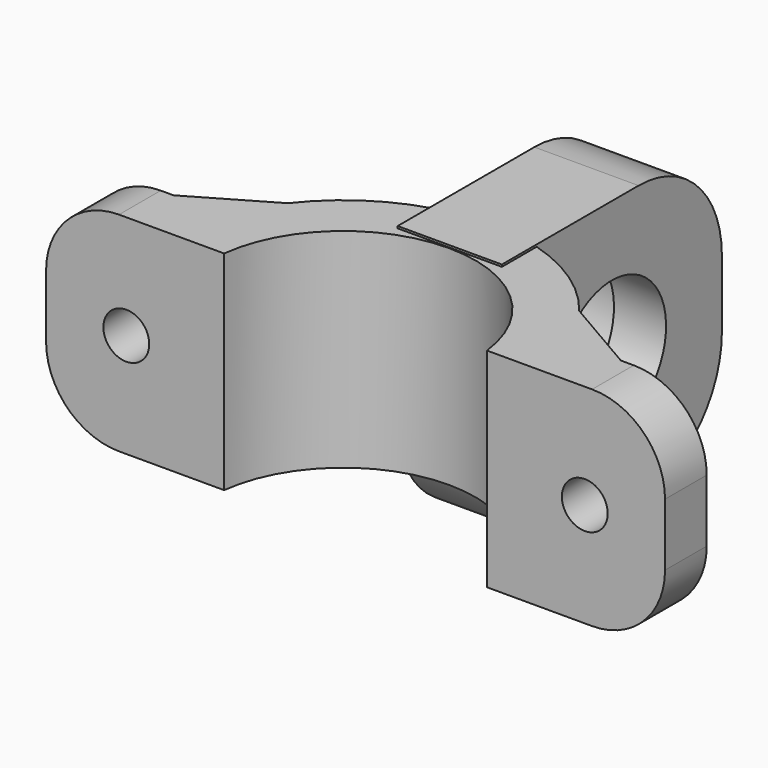
from build123d import *

# Parameters (mm, degrees)
CYLINDER005_R     = 6.5
CYLINDER005_DEPTH = 10
CYLINDER004_R     = 8.2
CYLINDER004_DEPTH = 5
BOX_W             = 10
BOX_H             = 26.4
BOX_DEPTH         = 26.4
FILLET_R          = 10
CYLINDER002_R     = 2.2
CYLINDER002_DEPTH = 20
ARRAY001_X_COUNT  = 2
ARRAY001_X_PITCH  = 44
PAD_DEPTH         = 20
PAD001_DEPTH      = 5


with BuildPart() as bring_holder_hole:
    # Cylinder005 → Cylinder005 (new body)
    with BuildSketch(Plane(origin=(0, 0, 0), x_dir=(0, 0, -1), z_dir=(1, 0, 0))):
        Circle(CYLINDER005_R)
    extrude(amount=CYLINDER005_DEPTH)


with BuildPart() as bring_holder_extract:
    # Cylinder004 → Cylinder004 (new body)
    with BuildSketch(Plane(origin=(0, 0, 0), x_dir=(0, 0, -1), z_dir=(1, 0, 0))):
        Circle(CYLINDER004_R)
    extrude(amount=CYLINDER004_DEPTH)

    # Fusion001: union bring holder hole
    add(bring_holder_hole.part)


with BuildPart() as bring_holder_cut:
    # Box → Box (new body)
    with BuildSketch(Plane(origin=(0, -13.2, -13.2), x_dir=(1, 0, 0), z_dir=(0, 0, 1))):
        with Locations((5, 13.2)):
            Rectangle(BOX_W, BOX_H)
    extrude(amount=BOX_DEPTH)

    # Fillet
    fillet_edges = [bring_holder_cut.edges().sort_by_distance(p)[0] for p in [
        (5, -13.2, -13.2),
        (5, 13.2, -13.2),
        (5, 13.2, 13.2),
    ]]
    fillet(fillet_edges, radius=FILLET_R)

    # Cut023015003: cut bring holder extract
    add(bring_holder_extract.part, mode=Mode.SUBTRACT)


with BuildPart() as bring_holder_cut_1:
    # Cut023015003 placement: moved
    add(bring_holder_cut.part.moved(Location((-5, 26, 7))))


with BuildPart() as bolt_hole_array001:
    # Cylinder002 → Cylinder002 (new body)
    with BuildSketch(Plane.XZ):
        Circle(CYLINDER002_R)
    extrude(amount=CYLINDER002_DEPTH)

    # Array001 X: bolt hole array001 ×2


with BuildPart() as bolt_hole_array001_1:
    add(bolt_hole_array001.part)
    with Locations(*[(i * ARRAY001_X_PITCH, 0, 0) for i in range(1, ARRAY001_X_COUNT)]):
        add(bolt_hole_array001.part)


with BuildPart() as bolt_hole_array001_2:
    # Array001 placement: moved
    add(bolt_hole_array001_1.part.moved(Location((-22, 20, 10))))


with BuildPart() as f_25_mm_16mm_bring_attachment_fusion:
    # Sketch → Pad (new body)
    with BuildSketch(Plane.XY):
        with BuildLine():
            ThreePointArc((12.611106, 1.5), (0, 12.7), (-12.611106, 1.5))
            Line((-22.7, 1.5), (-12.611106, 1.5))
            Line((-22.7, 1.5), (-22.7, 6.5))
            Line((-22.7, 6.5), (-21.463293, 6.5))
            Line((-21.463293, 6.5), (-13.988671, 10.84468))
            ThreePointArc((13.988671, 10.84468), (0, 17.7), (-13.988671, 10.84468))
            Line((13.988671, 10.84468), (21.463293, 6.5))
            Line((21.463293, 6.5), (22.7, 6.5))
            Line((22.7, 6.5), (22.7, 1.5))
            Line((12.611106, 1.5), (22.7, 1.5))
        make_face()
    extrude(amount=PAD_DEPTH)

    # Sketch001 → Pad001 (join)
    with BuildSketch(Plane.XZ.offset(-1.5)):
        with BuildLine():
            Line((-12.611106, 20), (-22.7, 20))
            ThreePointArc((-22.7, 20), (-27.649747, 17.949747), (-29.7, 13))
            Line((-29.7, 13), (-29.7, 7))
            ThreePointArc((-29.7, 7), (-27.649747, 2.050253), (-22.7, 0))
            Line((-12.611106, 0), (-22.7, 0))
            Line((-12.611106, 20), (-12.611106, 0))
        make_face()
        with BuildLine():
            Line((12.611106, 20), (22.7, 20))
            ThreePointArc((29.7, 13), (27.649747, 17.949747), (22.7, 20))
            Line((29.7, 13), (29.7, 7))
            ThreePointArc((22.7, 0), (27.649747, 2.050253), (29.7, 7))
            Line((22.7, 0), (12.611106, 0))
            Line((12.611106, 20), (12.611106, 0))
        make_face()
    extrude(amount=-PAD001_DEPTH)

    # Cut023015002: cut bolt hole array001
    add(bolt_hole_array001_2.part, mode=Mode.SUBTRACT)

    # Fusion002: union bring holder cut
    add(bring_holder_cut_1.part)


solid = f_25_mm_16mm_bring_attachment_fusion.part
